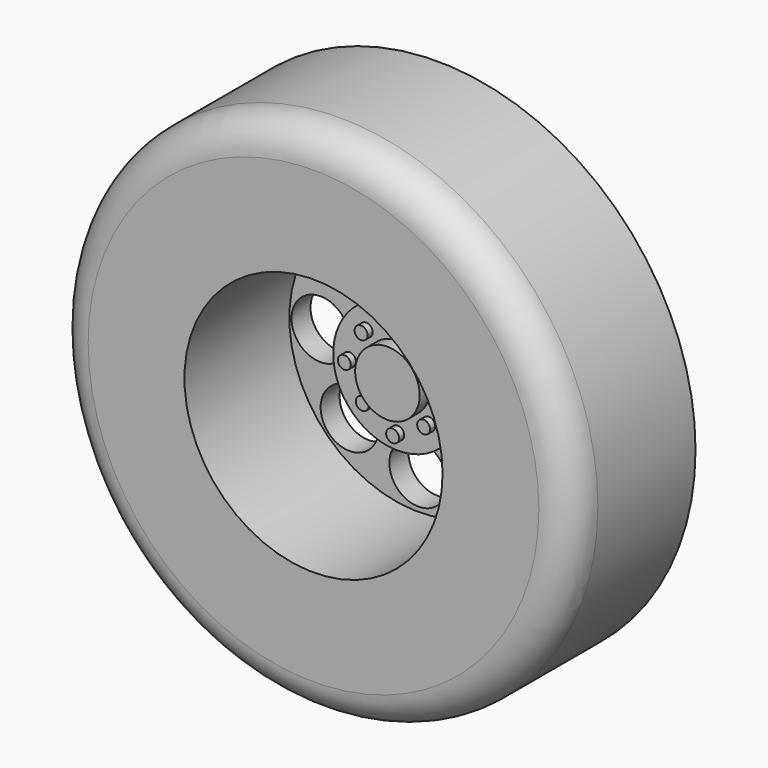
from build123d import *

# Parameters (mm, degrees)
F0_R      = 20
F1_DEPTH  = 12
F2_R      = 2.54
F3_R      = 10
F4_DEPTH  = 10.16
F5_R      = 5
F6_DEPTH  = 2
F7_R      = 2.5
F8_DEPTH  = 1
F10_R     = 2.25
F12_DEPTH = 25.4
F13_DEPTH = 25.4
F14_R     = 0.5
F15_DEPTH = 0.5


with BuildPart() as f1:
    # F0 (on Front) → F1 (new body)
    with BuildSketch(Plane.XZ):
        Circle(F0_R)
    extrude(amount=F1_DEPTH)

    # F2
    f2_edges = [f1.edges().sort_by_distance(p)[0] for p in [
        (-20, -12, 0),
    ]]
    fillet(f2_edges, radius=F2_R)

    # F3 (on face) → F4 (cut)
    with BuildSketch(Plane.XZ.offset(12)):
        Circle(F3_R)
    extrude(amount=-F4_DEPTH, mode=Mode.SUBTRACT)

    # F5 (on face) → F6 (join)
    with BuildSketch(Plane.XZ.offset(1.84)):
        Circle(F5_R)
    extrude(amount=F6_DEPTH)

    # F7 (on face) → F8 (join)
    with BuildSketch(Plane.XZ.offset(3.84)):
        Circle(F7_R)
    extrude(amount=F8_DEPTH)

    # F10 (on face) → F12 (cut)
    with BuildSketch(Plane.XZ.offset(1.84)):
        with Locations((0, 7.612496)):
            Circle(F10_R)
        with Locations((7.716608, 0)):
            Circle(F10_R)
        with Locations((0, -7.387504)):
            Circle(F10_R)
        with Locations((-7.583391, 0)):
            Circle(F10_R)
    extrude(amount=-F12_DEPTH, mode=Mode.SUBTRACT)

    # F11 (on face) → F13 (cut)
    with BuildSketch(Plane.XZ.offset(1.84)):
        with BuildLine():
            ThreePointArc((7.612273, 5.362273), (4.501235, 7.441002), (3.771282, 3.771282))
            ThreePointArc((3.771282, 3.771282), (6.22331, 3.283544), (7.612273, 5.362273))
        make_face()
        with BuildLine():
            ThreePointArc((-3.112273, 5.362273), (-7.441002, 6.22331), (-3.771282, 3.771282))
            ThreePointArc((-3.771282, 3.771282), (-3.283544, 4.501235), (-3.112273, 5.362273))
        make_face()
        with BuildLine():
            ThreePointArc((-3.078865, -5.328865), (-3.250136, -4.467827), (-3.737875, -3.737875))
            ThreePointArc((-3.737875, -3.737875), (-7.407594, -6.189903), (-3.078865, -5.328865))
        make_face()
        with BuildLine():
            ThreePointArc((7.645473, -5.395473), (6.256511, -3.316744), (3.804483, -3.804483))
            ThreePointArc((3.804483, -3.804483), (4.534436, -7.474202), (7.645473, -5.395473))
        make_face()
    extrude(amount=-F13_DEPTH, mode=Mode.SUBTRACT)

    # F14 (on face) → F15 (join)
    with BuildSketch(Plane.XZ.offset(3.84)):
        with BuildLine():
            ThreePointArc((0.5, 3.70109), (-0.353553, 4.054643), (0, 3.20109))
            ThreePointArc((0, 3.20109), (0.353553, 3.347536), (0.5, 3.70109))
        make_face()
        with BuildLine():
            ThreePointArc((3.017969, 2.517969), (2.326627, 2.979909), (2.164415, 2.164415))
            ThreePointArc((2.164415, 2.164415), (2.709311, 2.056029), (3.017969, 2.517969))
        make_face()
        with BuildLine():
            ThreePointArc((4.305301, 0), (3.805301, 0.5), (3.305301, 0))
            ThreePointArc((3.305301, 0), (3.805301, -0.5), (4.305301, 0))
        make_face()
        with BuildLine():
            ThreePointArc((2.904961, -2.404961), (2.596303, -1.943022), (2.051408, -2.051408))
            ThreePointArc((2.051408, -2.051408), (2.21362, -2.866901), (2.904961, -2.404961))
        make_face()
        with BuildLine():
            ThreePointArc((0.5, -3.792667), (0.353553, -3.439113), (0, -3.292667))
            ThreePointArc((0, -3.292667), (-0.353553, -4.14622), (0.5, -3.792667))
        make_face()
        with BuildLine():
            ThreePointArc((-1.850414, -2.350414), (-1.888474, -2.159072), (-1.99686, -1.99686))
            ThreePointArc((-1.99686, -1.99686), (-2.812353, -2.541755), (-1.850414, -2.350414))
        make_face()
        with Locations((-3.738696, 0)):
            Circle(F14_R)
        with BuildLine():
            ThreePointArc((-1.941345, 2.441345), (-2.903285, 2.632687), (-2.087792, 2.087792))
            ThreePointArc((-2.087792, 2.087792), (-1.979406, 2.250004), (-1.941345, 2.441345))
        make_face()
    extrude(amount=F15_DEPTH)


solid = f1.part
